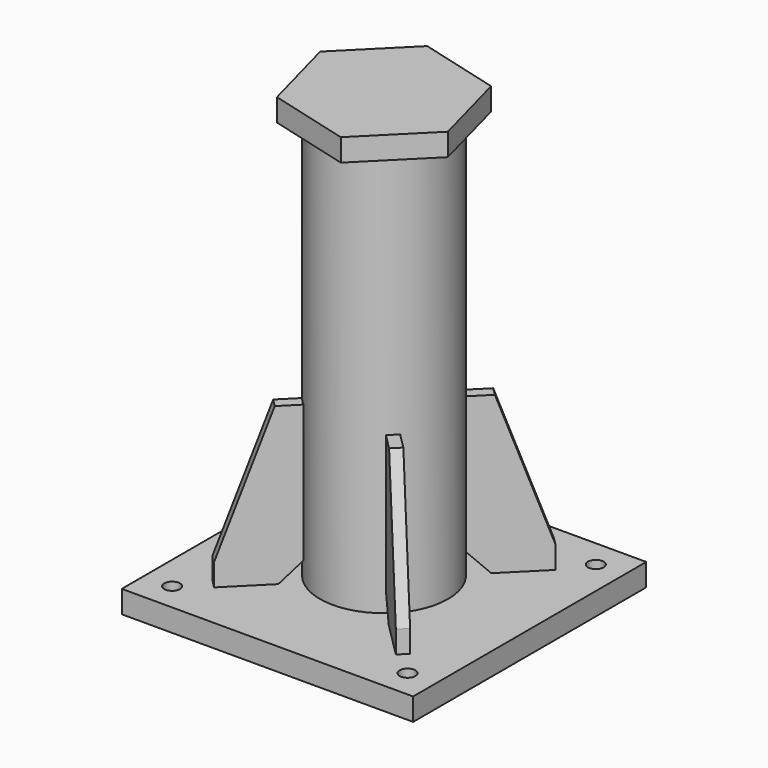
from build123d import *

# Parameters (mm, degrees)
SKETCH001_R           = 57.15
SKETCH001_R_2         = 52.15
EXTRUDE001_DEPTH      = 360
EXTRUDE002_DEPTH      = 5
ARRAY_COUNT           = 4
ARRAY_PLACEMENT_ANGLE = 45
EXTRUDE003_DEPTH      = 20
SKETCH_W              = 260
SKETCH_H              = 260
SKETCH_R              = 7
EXTRUDE_DEPTH         = 20


with BuildPart() as r114x5:
    # Sketch001 (on Face10 of Extrude) → Extrude001 (new body)
    with BuildSketch(Plane.XY.offset(20)):
        Circle(SKETCH001_R)
        Circle(SKETCH001_R_2, mode=Mode.SUBTRACT)
    extrude(amount=EXTRUDE001_DEPTH)


with BuildPart() as obj1:
    # Sketch002 → Extrude002 (new body, symmetric)
    with BuildSketch(Plane.XZ):
        Polygon((54.65, 160), (77.15, 160), (119.65, 40), (119.65, 20), (74.65, 20), (54.65, 40), align=None)
    extrude(amount=EXTRUDE002_DEPTH, both=True)

    # Array: obj1 ×4 about axis
    array_axis = Axis((0, 0, 0), (0, 0, 1))


with BuildPart() as obj1_1:
    add(obj1.part)
    for i in range(1, ARRAY_COUNT):
        add(obj1.part.rotate(array_axis, i * 360 / ARRAY_COUNT))


with BuildPart() as obj1_2:
    # Array placement: moved
    add(obj1_1.part.rotate(Axis((0, 0, 0), (0, 0, 1)), ARRAY_PLACEMENT_ANGLE))


with BuildPart() as lastplatte:
    # Sketch003 (on Face4 of Extrude001) → Extrude003 (new body)
    with BuildSketch(Plane.XY.offset(380)):
        Polygon((72.49808, -19.425802), (53.072278, 53.072278), (-19.425802, 72.49808), (-72.49808, 19.425802), (-53.072278, -53.072278), (19.425802, -72.49808), align=None)
    extrude(amount=EXTRUDE003_DEPTH)


with BuildPart() as fusion:
    # Sketch → Extrude (new body)
    with BuildSketch(Plane.XY):
        Rectangle(SKETCH_W, SKETCH_H)
        with Locations((-105, 105)):
            Circle(SKETCH_R, mode=Mode.SUBTRACT)
        with Locations((105, 105)):
            Circle(SKETCH_R, mode=Mode.SUBTRACT)
        with Locations((-105, -105)):
            Circle(SKETCH_R, mode=Mode.SUBTRACT)
        with Locations((105, -105)):
            Circle(SKETCH_R, mode=Mode.SUBTRACT)
    extrude(amount=EXTRUDE_DEPTH)

    # Fusion: union R114x5, obj1, lastplatte
    add(r114x5.part)
    add(obj1_2.part)
    add(lastplatte.part)


solid = fusion.part
